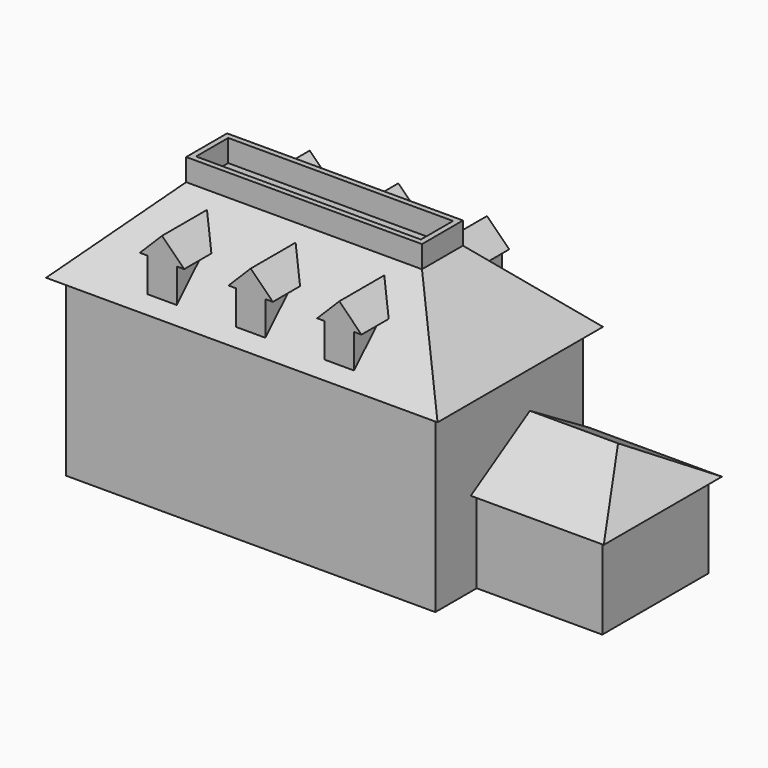
from build123d import *

# Parameters (mm, degrees)
F1_DEPTH       = 11.42979
F3_DEPTH       = 12.28684
F4_W           = 53
F4_H           = 28
F5_DEPTH       = 10.53635
F5_TAPER       = 45
F10_DEPTH      = 18
F12_DEPTH      = 19.501
F12_DEPTH_BACK = 8.501
F13_W          = 31.9273
F13_H          = 6.9273
F13_W_2        = 30.4412200116
F13_H_2        = 5.4412200116
F14_DEPTH      = 3


with BuildPart() as f1:
    # F0 (on Top) → F1 (new body)
    with BuildSketch(Plane.XY):
        Polygon((-25, -12.5), (25, -12.5), (25, -5.5), (42, -5.5), (42, 12.5), (25, 12.5), (-25, 12.5), align=None)
    extrude(amount=F1_DEPTH)

    # F2 (on face) → F3 (join)
    with BuildSketch(Plane.XY.offset(11.42979)):
        Polygon((-25, -12.5), (25, -12.5), (25, -5.5), (25, 12.5), (-25, 12.5), align=None)
    extrude(amount=F3_DEPTH)

    # F4 (on face) → F5 (join)
    with BuildSketch(Plane.XY.offset(23.71663)):
        Rectangle(F4_W, F4_H)
    extrude(amount=F5_DEPTH, taper=F5_TAPER)


with BuildPart() as f7:
    # F6 (on face) → F7 (new body, up to the next surface of F1)
    with BuildSketch(Plane.XZ.offset(12.5)):
        Polygon((-12, 32.8224519938), (-15, 29.8224519938), (-14, 29.8224519938), (-14, 25.21663), (-12, 25.21663), (-10, 25.21663), (-10, 29.8224519938), (-9, 29.8224519938), align=None)
    extrude(until=Until.NEXT, target=f1.part, dir=(0, 1, 0))


with BuildPart() as f7b:
    # F6 (on face) → F7, piece 2 (new body, up to the next surface of F1)
    with BuildSketch(Plane.XZ.offset(12.5)):
        Polygon((-2, 25.21663), (0, 25.21663), (2, 25.21663), (2, 29.8224519938), (3, 29.8224519938), (0, 32.8224519938), (-3, 29.8224519938), (-2, 29.8224519938), align=None)
    extrude(until=Until.NEXT, target=f1.part, dir=(0, 1, 0))


with BuildPart() as f7c:
    # F6 (on face) → F7, piece 3 (new body, up to the next surface of F1)
    with BuildSketch(Plane.XZ.offset(12.5)):
        Polygon((10, 25.21663), (12, 25.21663), (14, 25.21663), (14, 29.8224519938), (15, 29.8224519938), (12, 32.8224519938), (9, 29.8224519938), (10, 29.8224519938), align=None)
    extrude(until=Until.NEXT, target=f1.part, dir=(0, 1, 0))


with BuildPart() as f1_1:
    add(f1.part)

    # F8: F7, F7b, F7c across plane
    add(f7.part.mirror(Plane.XZ))
    add(f7b.part.mirror(Plane.XZ))
    add(f7c.part.mirror(Plane.XZ))

    # F9 (on face) → F10 (join)
    with BuildSketch(Plane.YZ.offset(25)):
        Polygon((3.5, 17.4922389561), (-6.5, 11.42979), (-5.5, 11.42979), (12.5, 11.42979), (12.5, 12.0360348956), align=None)
        Polygon((12.5, 12.0360348956), (12.5, 11.42979), (13.5, 11.42979), align=None)
    extrude(amount=F10_DEPTH)

    # F11 (on face) → F12 (cut, two sides)
    with BuildSketch(Plane.XZ.offset(5.5)) as f12_sk:
        Polygon((43, 11.42979), (43, 17.4922389561), (36.9375510439, 17.4922389561), align=None)
    extrude(amount=-F12_DEPTH, mode=Mode.SUBTRACT)
    extrude(f12_sk.sketch, amount=F12_DEPTH_BACK, mode=Mode.SUBTRACT)

    add(f7.part)  # F14 merges F7

    add(f7b.part)  # F14 merges F7b

    add(f7c.part)  # F14 merges F7c
    # F13 (on face) → F14 (join)
    with BuildSketch(Plane.XY.offset(34.25298)):
        Rectangle(F13_W, F13_H)
        Rectangle(F13_W_2, F13_H_2, mode=Mode.SUBTRACT)
    extrude(amount=F14_DEPTH)


solid = f1_1.part
